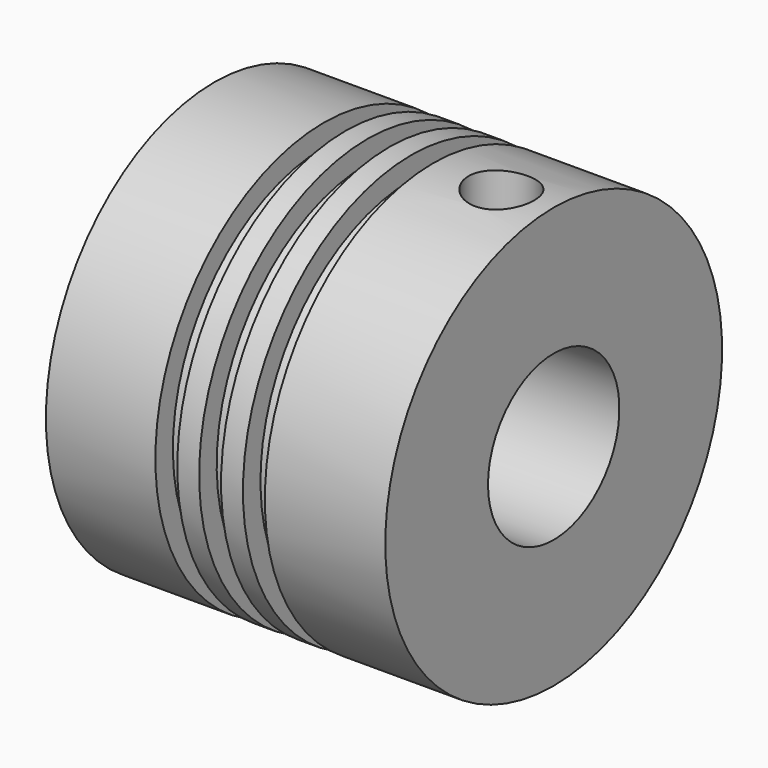
from build123d import *

# Parameters (mm, degrees)
F2_R     = 7.5
F3_DEPTH = 40
F4_R     = 3
F5_DEPTH = 25


with BuildPart() as f1:
    # F0 (on Front) → F1 (revolve)
    with BuildSketch(Plane.XZ):
        Polygon((-78.328885, 0), (-47.328885, 0), (-47.328885, 19.231284), (-58.328885, 19.231284), (-58.328885, 17.231284), (-60.328885, 17.231284), (-60.328885, 19.231284), (-62.328885, 19.231284), (-62.328885, 17.231284), (-64.328885, 17.231284), (-64.328885, 19.231284), (-66.328885, 19.231284), (-66.328885, 17.231284), (-68.328885, 17.231284), (-68.328885, 19.231284), (-78.328885, 19.231284), align=None)
    revolve(axis=Axis((-39.164443, 0, 0), (-1, 0, 0)))

    # F2 (on face) → F3 (cut)
    with BuildSketch(Plane(origin=(-78.328885, 0, 0), x_dir=(0, -1, 0), z_dir=(-1, 0, 0))):
        Circle(F2_R)
    extrude(amount=-F3_DEPTH, mode=Mode.SUBTRACT)

    # F4 (on Top) → F5 (cut)
    with BuildSketch(Plane.XY):
        with Locations((-52.106317, 0)):
            Circle(F4_R)
    extrude(amount=F5_DEPTH, mode=Mode.SUBTRACT)


solid = f1.part
